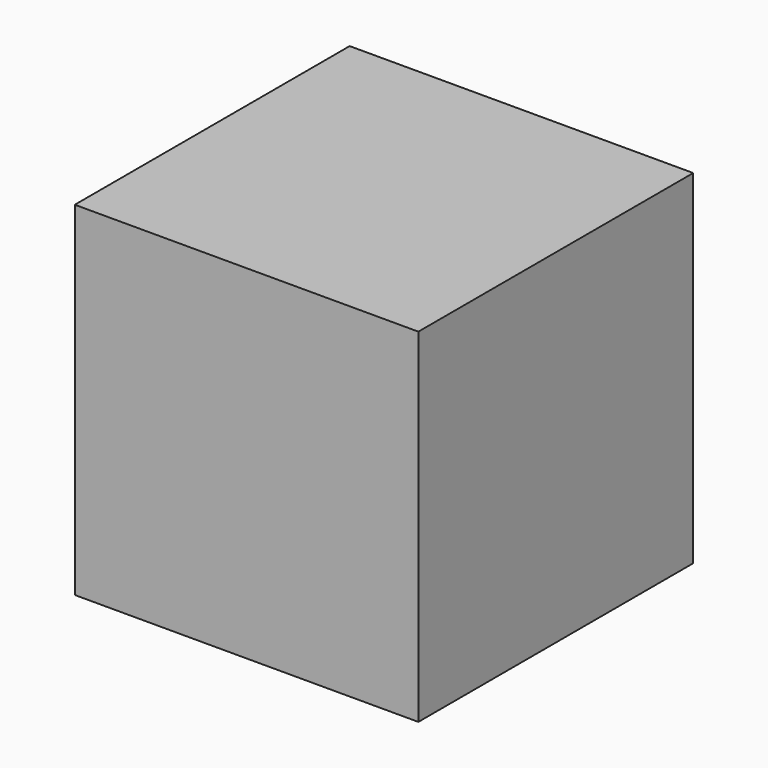
from build123d import *

# Parameters (mm, degrees)
F0_W     = 40
F0_H     = 40
F1_DEPTH = 20
F2_D     = 22.3266
F2_DEPTH = 20.001


with BuildPart() as f1:
    # F0 (on Top) → F1 (new body, symmetric)
    with BuildSketch(Plane.XY):
        Rectangle(F0_W, F0_H)
    extrude(amount=F1_DEPTH, both=True)

    # F2 (through all, one way)
    with BuildSketch(Plane.XY):
        with Locations((0, 0)):
            Circle(F2_D / 2)
    extrude(amount=-F2_DEPTH, mode=Mode.SUBTRACT)


solid = f1.part
